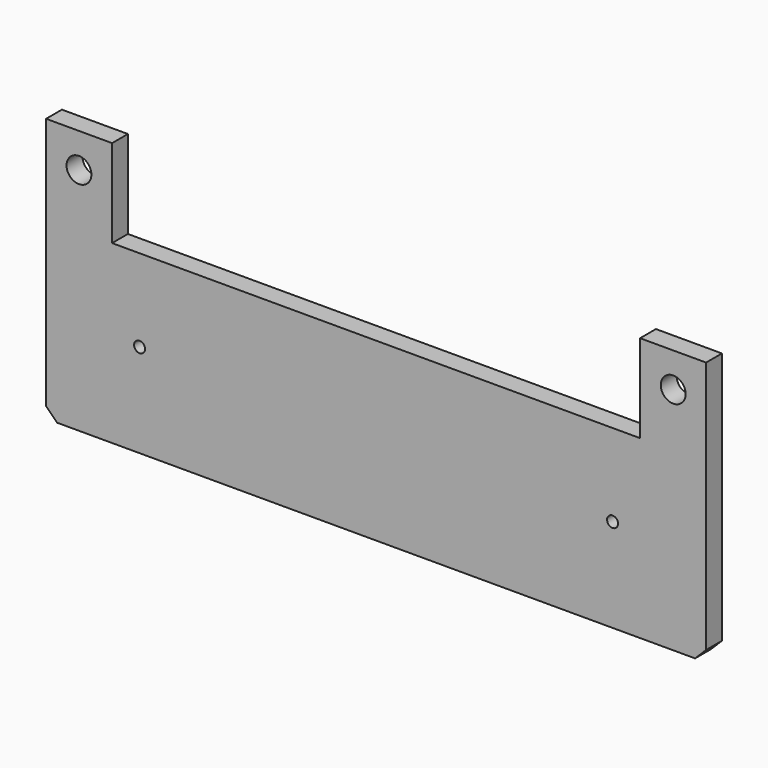
from build123d import *

# Parameters (mm, degrees)
F0_R     = 2.5
F0_R_2   = 5.65
F1_DEPTH = 9


with BuildPart() as f1:
    # F0 (on Front) → F1 (new body)
    with BuildSketch(Plane.XZ):
        Polygon((-120, 120), (-150, 120), (-150, 5), (-145, 0), (0, 0), (145, 0), (150, 5), (150, 120), (120, 120), (120, 80), (0, 80), (-120, 80), align=None)
        with Locations((-107.5, 42.5)):
            Circle(F0_R, mode=Mode.SUBTRACT)
        with Locations((107.5, 42.5)):
            Circle(F0_R, mode=Mode.SUBTRACT)
        with Locations((-135.05, 104.35)):
            Circle(F0_R_2, mode=Mode.SUBTRACT)
        with Locations((135.05, 104.35)):
            Circle(F0_R_2, mode=Mode.SUBTRACT)
    extrude(amount=F1_DEPTH)


solid = f1.part
